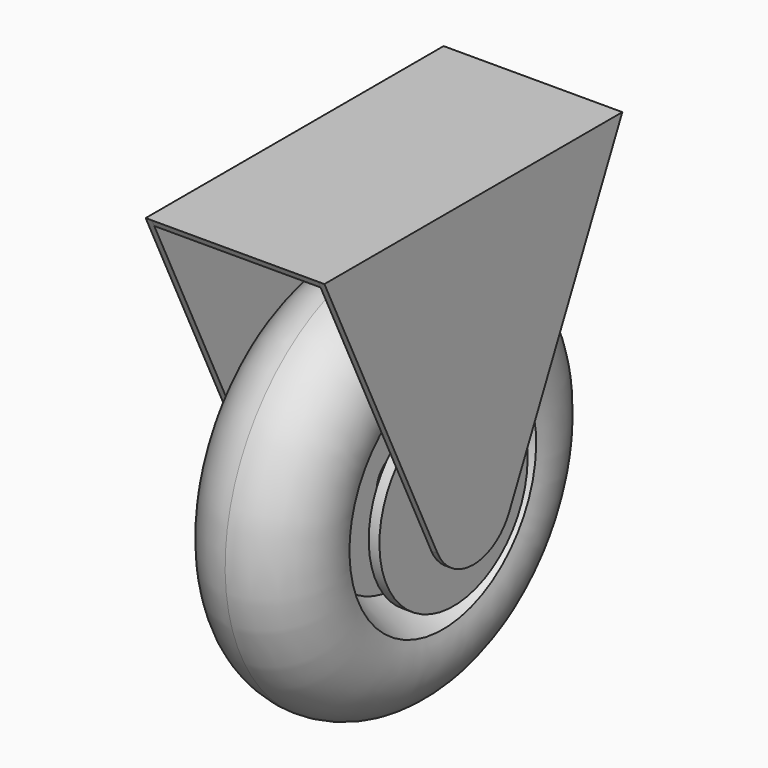
from build123d import *

# Parameters (mm, degrees)
F4_DEPTH      = 3.175
F7_DEPTH      = 42.545
F7_DEPTH_BACK = 42.545
F8_R          = 12.7
F9_DEPTH      = 42.545
F9_DEPTH_BACK = 42.545


with BuildPart() as f1:
    # F0 (on Front) → F1 (revolve)
    with BuildSketch(Plane.XZ):
        with BuildLine():
            ThreePointArc((0, 101.6), (-25.7938219347, 88.3632722661), (-30.0805069771, 59.69))
            Line((-30.0805069771, 59.69), (-6.35, 48.6774114908))
            Line((-6.35, 48.6774114908), (-6.35, 12.7))
            Line((-6.35, 12.7), (-30.0805069771, 12.7))
            Line((-30.0805069771, 12.7), (-30.0805069771, 47.3746955395))
            Line((-30.0805069771, 47.3746955395), (-35.56, 47.3746955395))
            Line((-35.56, 47.3746955395), (-35.56, 0))
            Line((-35.56, 0), (0, 0))
            Line((0, 0), (35.56, 0))
            Line((35.56, 0), (35.56, 47.3746955395))
            Line((35.56, 47.3746955395), (30.0805069771, 47.3746955395))
            Line((30.0805069771, 47.3746955395), (30.0805069771, 12.7))
            Line((30.0805069771, 12.7), (6.35, 12.7))
            Line((6.35, 12.7), (6.35, 48.6774114908))
            Line((6.35, 48.6774114908), (30.0805069771, 59.69))
            ThreePointArc((30.0805069771, 59.69), (25.7938219347, 88.3632722661), (0, 101.6))
        make_face()
    revolve(axis=Axis((17.78, 0, 0), (-1, 0, 0)))



with BuildPart() as f4:
    # F3 (on offset) → F4 (new body)
    with BuildSketch(Plane.YZ.offset(45.72)):
        with BuildLine():
            Line((22.8975321566, -10.9937719249), (95.25, 139.7))
            Line((95.25, 139.7), (-95.25, 139.7))
            Line((-95.25, 139.7), (-22.8975321566, -10.9937719249))
            ThreePointArc((-22.8975321566, -10.9937719249), (0, -25.4), (22.8975321566, -10.9937719249))
        make_face()
    extrude(amount=-F4_DEPTH)


with BuildPart() as f5_1:
    # F5: instance of F4
    add(f4.part.mirror(Plane.YZ))


with BuildPart() as f4_1:
    add(f4.part)

    add(f5_1.part)  # F7 merges F5_1
    # F6 (on Right) → F7 (join, two sides)
    with BuildSketch(Plane.YZ) as f7_sk:
        Polygon((95.25, 139.7), (-95.25, 139.7), (-93.7255900495, 136.525), (93.7255900495, 136.525), align=None)
    extrude(amount=F7_DEPTH)
    extrude(f7_sk.sketch, amount=-F7_DEPTH_BACK)


with BuildPart() as f1_1:
    add(f1.part)

    add(f4_1.part)  # F9 merges F4
    # F8 (on Right) → F9 (join, two sides)
    with BuildSketch(Plane.YZ) as f9_sk:
        Circle(F8_R)
    extrude(amount=F9_DEPTH)
    extrude(f9_sk.sketch, amount=-F9_DEPTH_BACK)


solid = f1_1.part
